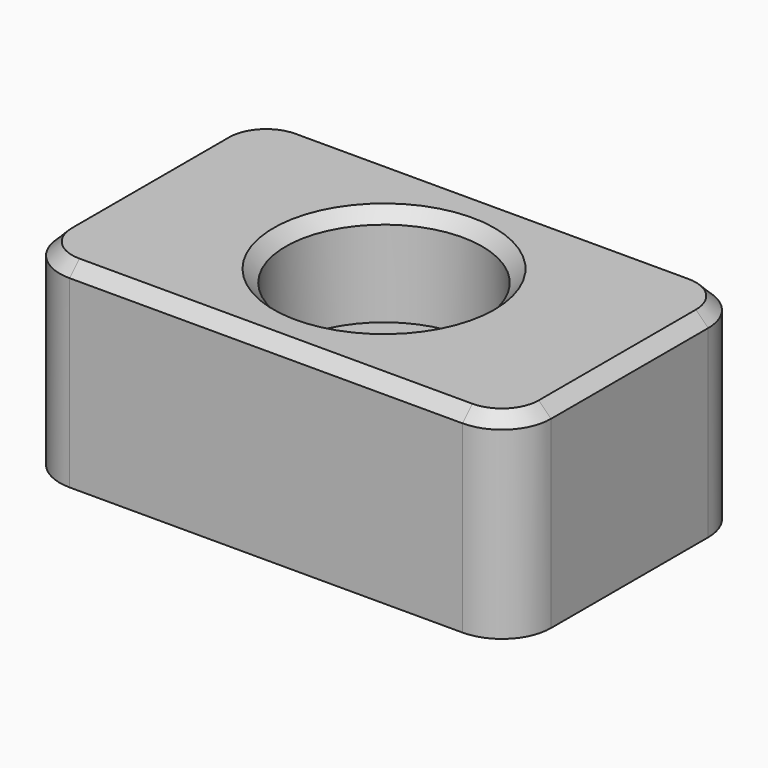
from build123d import *

# Parameters (mm, degrees)
F0_W     = 127
F0_H     = 76.2
F1_DEPTH = 50.8
F2_R     = 25.4
F3_DEPTH = 25.4
F4_R     = 12.7
F5_SIZE  = 3.175


with BuildPart() as f1:
    # F0 (on Top) → F1 (new body)
    with BuildSketch(Plane.XY):
        Rectangle(F0_W, F0_H)
    extrude(amount=F1_DEPTH)

    # F2 (on face) → F3 (cut)
    with BuildSketch(Plane.XY.offset(50.8)):
        Circle(F2_R)
    extrude(amount=-F3_DEPTH, mode=Mode.SUBTRACT)

    # F4
    f4_edges = [f1.edges().sort_by_distance(p)[0] for p in [
        (-63.5, -38.1, 25.4),
        (63.5, -38.1, 25.4),
        (63.5, 38.1, 25.4),
        (-63.5, 38.1, 25.4),
    ]]
    fillet(f4_edges, radius=F4_R)

    # F5
    f5_edges = [f1.edges().sort_by_distance(p)[0] for p in [
        (63.5, 0, 50.8),
        (59.780256, -34.380256, 50.8),
        (59.780256, 34.380256, 50.8),
        (0, -38.1, 50.8),
        (0, 38.1, 50.8),
        (-59.780256, -34.380256, 50.8),
        (-59.780256, 34.380256, 50.8),
        (-63.5, 0, 50.8),
        (-25.4, 0, 50.8),
    ]]
    chamfer(f5_edges, length=F5_SIZE)


solid = f1.part
